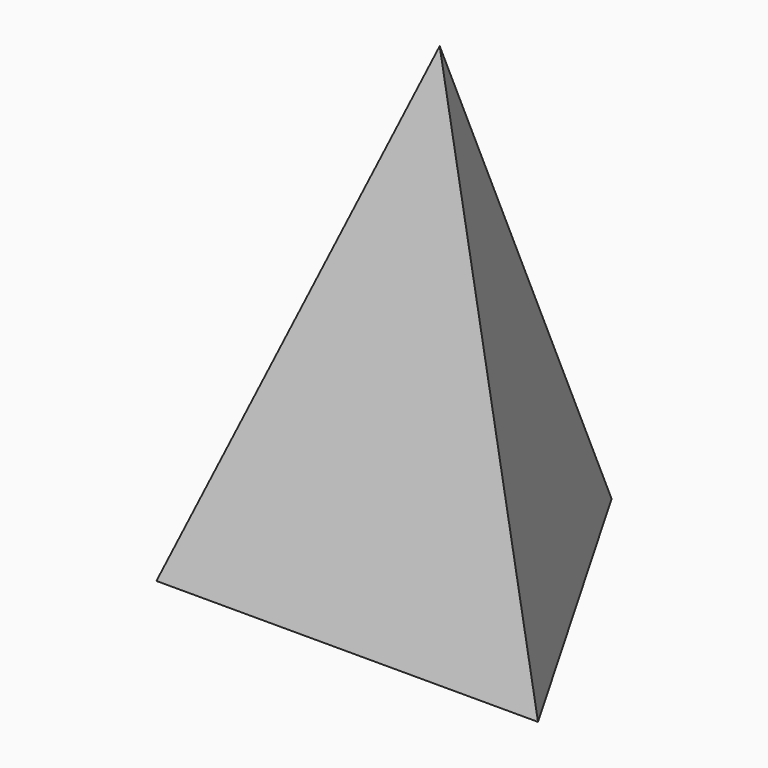
from build123d import *


with BuildPart() as f3:
    # F0 (on Top) → F3 section 0
    with BuildSketch(Plane.XY, mode=Mode.PRIVATE) as f3_s0:
        Polygon((99.637109, -57.525512), (0, 115.051024), (-99.637109, -57.525512), align=None)
    loft([f3_s0.sketch, Vertex(0.291474, 2.477541, 254)])


solid = f3.part
